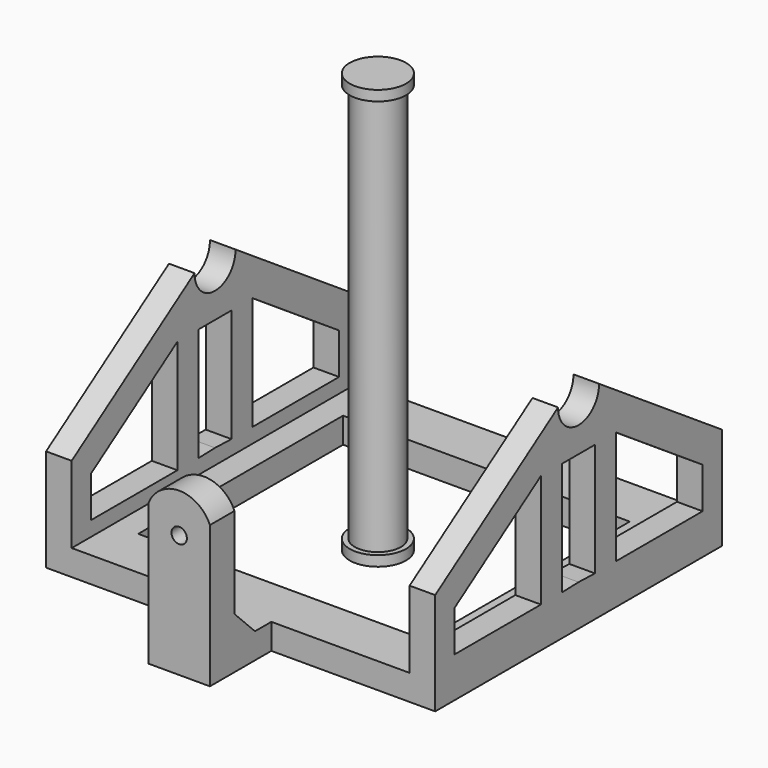
from build123d import *

# Parameters (mm, degrees)
F0_W      = 5
F0_H      = 70
F0_W_2    = 56
F0_H_2    = 10
F1_DEPTH  = 5
F2_DEPTH  = 35
F3_DEPTH  = 45
F5_DEPTH  = 76.001
F6_R      = 1.5
F7_DEPTH  = 85.001
F8_SIZE   = 5
F9_R      = 5.5
F10_DEPTH = 2
F11_R     = 4.5
F12_DEPTH = 78
F13_R     = 5.5
F14_DEPTH = 2


with BuildPart() as f1:
    # F0 (on Top) → F1 (new body)
    with BuildSketch(Plane.XY):
        with Locations((-2.5, 35)):
            Rectangle(F0_W, F0_H)
        Polygon((-10, 0), (-5, 0), (-5, 70), (-10, 70), (-10, 60), (-10, 10), align=None)
        Polygon((-32, 0), (-10, 0), (-10, 10), (-66, 10), (-66, 0), (-44, 0), (-38, 0), align=None)
        Polygon((-32, -9), (-32, 0), (-38, 0), (-44, 0), (-44, -9), align=None)
        with Locations((-38, 65)):
            Rectangle(F0_W_2, F0_H_2)
        Polygon((-32, -15), (-32, -9), (-44, -9), (-44, -15), (-38, -15), align=None)
        Polygon((-66, 0), (-66, 10), (-66, 60), (-66, 70), (-71, 70), (-71, 0), align=None)
        with Locations((-73.5, 35)):
            Rectangle(F0_W, F0_H)
    extrude(amount=F1_DEPTH)

    # F0 (on Top) → F2 (join)
    with BuildSketch(Plane.XY):
        Polygon((-32, -15), (-32, -9), (-44, -9), (-44, -15), (-38, -15), align=None)
    extrude(amount=F2_DEPTH)

    # F0 (on Top) → F3 (join)
    with BuildSketch(Plane.XY):
        with Locations((-73.5, 35)):
            Rectangle(F0_W, F0_H)
        with Locations((-2.5, 35)):
            Rectangle(F0_W, F0_H)
    extrude(amount=F3_DEPTH)

    # F4 (on face) → F5 (cut, through all)
    with BuildSketch(Plane(origin=(-76, 0, 0), x_dir=(0, -1, 0), z_dir=(-1, 0, 0))):
        with BuildLine():
            ThreePointArc((-39.9993787036, 40.0788199095), (-35.0394111791, 35.0001553265), (-30, 40))
            ThreePointArc((-30, 40), (-30.0001553265, 40.0394111791), (-30.0006212964, 40.0788199095))
            ThreePointArc((-30.0006212964, 40.0788199095), (-35, 45), (-39.9993787036, 40.0788199095))
        make_face()
        Polygon((-35, 30), (-39, 30), (-39, 7.8811858993), (-35, 8), align=None)
        Polygon((-31, 30), (-35, 30), (-35, 8), (-31, 7.8811858993), align=None)
        Polygon((-44.186412645, 7.8811858993), (-44.186412645, 30), (-65.2819350362, 15.8811858993), (-65.2819350362, 7.8811858993), align=None)
        Polygon((-4.7180649638, 15.8811858993), (-25.813587355, 30), (-25.813587355, 7.8811858993), (-4.7180649638, 7.8811858993), align=None)
        with BuildLine():
            ThreePointArc((-35, 45), (-31.4924438385, 43.5632919855), (-30.0006212964, 40.0788199095))
            Line((-30.0006212964, 40.0788199095), (0, 20))
            Line((0, 20), (0, 45))
            Line((0, 45), (-35, 45))
        make_face()
        with BuildLine():
            Line((-70, 20), (-39.9993787036, 40.0788199095))
            ThreePointArc((-39.9993787036, 40.0788199095), (-38.5075561615, 43.5632919855), (-35, 45))
            Line((-35, 45), (-70, 45))
            Line((-70, 45), (-70, 20))
        make_face()
    extrude(amount=-F5_DEPTH, mode=Mode.SUBTRACT)

    # F6 (on face) → F7 (cut, through all)
    with BuildSketch(Plane.XZ.offset(15)):
        with Locations((-38, 23.9908639342)):
            Circle(F6_R)
        with BuildLine():
            ThreePointArc((-44, 27.6496782899), (-38.0260330484, 31.7016328425), (-32, 27.7275238186))
            Line((-32, 27.7275238186), (-32, 35))
            Line((-32, 35), (-44, 35))
            Line((-44, 35), (-44, 27.6496782899))
        make_face()
    extrude(amount=-F7_DEPTH, mode=Mode.SUBTRACT)

    # F8
    f8_edges = [f1.edges().sort_by_distance(p)[0] for p in [
        (-38, -9, 5),
    ]]
    chamfer(f8_edges, length=F8_SIZE)


with BuildPart() as f10:
    # F9 (on Top) → F10 (new body)
    with BuildSketch(Plane.XY):
        with Locations((-40.1041135192, 36.1346639693)):
            Circle(F9_R)
    extrude(amount=F10_DEPTH)

    # F11 (on face) → F12 (join)
    with BuildSketch(Plane.XY.offset(2)):
        with Locations((-40.1041135192, 36.1346639693)):
            Circle(F11_R)
    extrude(amount=F12_DEPTH)

    # F13 (on face) → F14 (join)
    with BuildSketch(Plane.XY.offset(80)):
        with Locations((-40.1041135192, 36.1346639693)):
            Circle(F13_R)
    extrude(amount=F14_DEPTH)


solid = Compound([f1.part, f10.part])
